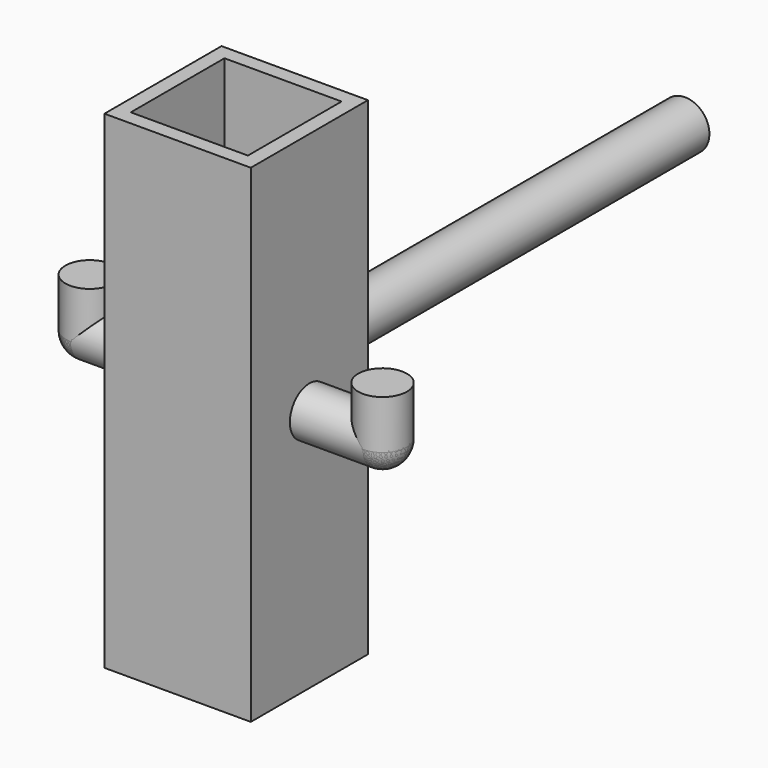
from build123d import *

# Parameters (mm, degrees)
F0_W          = 30
F0_H          = 30
F0_W_2        = 24
F0_H_2        = 24
F1_DEPTH      = 100
F2_R          = 5
F3_DEPTH      = 20
F5_R          = 5
F6_DEPTH      = 5
F6_DEPTH_BACK = 10
F7_R          = 5
F7_2_R        = 5
F10_R         = 5
F11_DEPTH     = 100


with BuildPart() as f1:
    # F0 (on Top) → F1 (new body)
    with BuildSketch(Plane.XY):
        Rectangle(F0_W, F0_H)
        Rectangle(F0_W_2, F0_H_2, mode=Mode.SUBTRACT)
    extrude(amount=F1_DEPTH)

    # F10 (on face) → F11 (join)
    with BuildSketch(Plane(origin=(0, 15, 0), x_dir=(-1, 0, 0), z_dir=(0, 1, 0))):
        with Locations((0, 50)):
            Circle(F10_R)
    extrude(amount=F11_DEPTH)


with BuildPart() as f3:
    # F2 (on face) → F3 (new body)
    with BuildSketch(Plane.YZ.offset(15)):
        with Locations((0, 50)):
            Circle(F2_R)
    extrude(amount=F3_DEPTH)

    # F7
    f7_edges = [f3.edges().sort_by_distance(p)[0] for p in [
        (35, -5, 50),
    ]]
    fillet(f7_edges, radius=F7_R)


with BuildPart() as f6:
    # F5 (on offset) → F6 (new body, two sides)
    with BuildSketch(Plane.XY.offset(55)) as f6_sk:
        with Locations((30, 0)):
            Circle(F5_R)
    extrude(amount=F6_DEPTH)
    extrude(f6_sk.sketch, amount=-F6_DEPTH_BACK)

    # F7#2
    f7_2_edges = [f6.edges().sort_by_distance(p)[0] for p in [
        (25, 0, 45),
    ]]
    fillet(f7_2_edges, radius=F7_2_R)


with BuildPart() as f8_1:
    # F8: instance of F6
    add(f6.part.mirror(Plane(origin=(-15, 0, 50), x_dir=(0, -1, 0), z_dir=(-1, 0, 0))))


with BuildPart() as f8_2:
    # F8: instance of F3
    add(f3.part.mirror(Plane(origin=(-15, 0, 50), x_dir=(0, -1, 0), z_dir=(-1, 0, 0))))


with BuildPart() as f8_1_1:
    # F9: moved
    add(f8_1.part.moved(Location((30, 0, 0))))


with BuildPart() as f8_2_1:
    # F9: moved
    add(f8_2.part.moved(Location((30, 0, 0))))


solid = Compound([f1.part, f3.part, f6.part, f8_1_1.part, f8_2_1.part])
